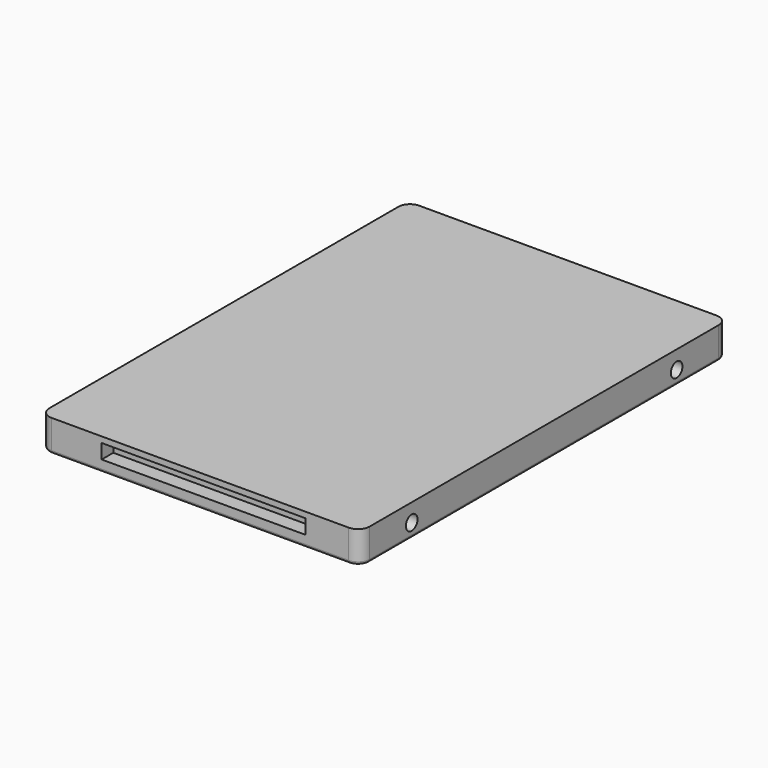
from build123d import *

# Parameters (mm, degrees)
F0_W     = 69.85
F0_H     = 100.203
F1_DEPTH = 6.9088
F2_R     = 2.54
F3_R     = 1.5875
F4_DEPTH = 69.851
F5_R     = 0.635
F6_W     = 44.45
F6_H     = 3.175
F7_DEPTH = 3.175


with BuildPart() as f1:
    # F0 (on Top) → F1 (new body)
    with BuildSketch(Plane.XY):
        with Locations((34.925, 50.1015)):
            Rectangle(F0_W, F0_H)
    extrude(amount=F1_DEPTH)

    # F2
    f2_edges = [f1.edges().sort_by_distance(p)[0] for p in [
        (69.85, 0, 3.4544),
        (0, 0, 3.4544),
        (69.85, 100.203, 3.4544),
        (0, 100.203, 3.4544),
    ]]
    fillet(f2_edges, radius=F2_R)

    # F3 (on face) → F4 (cut, through all)
    with BuildSketch(Plane.YZ.offset(69.85)):
        with Locations((13.9954, 2.9972)):
            Circle(F3_R)
        with Locations((86.2076, 2.9972)):
            Circle(F3_R)
    extrude(amount=-F4_DEPTH, mode=Mode.SUBTRACT)

    # F5
    f5_edges = [f1.edges().sort_by_distance(p)[0] for p in [
        (69.85, 50.1015, 0),
        (69.106051, 0.743949, 0),
        (34.925, 0, 0),
        (0.743949, 0.743949, 0),
        (0, 50.1015, 0),
        (0.743949, 99.459051, 0),
        (34.925, 100.203, 0),
        (69.106051, 99.459051, 0),
    ]]
    fillet(f5_edges, radius=F5_R)

    # F6 (on face) → F7 (cut)
    with BuildSketch(Plane.XZ):
        with Locations((35.6616, 4.0513)):
            Rectangle(F6_W, F6_H)
    extrude(amount=-F7_DEPTH, mode=Mode.SUBTRACT)


solid = f1.part
